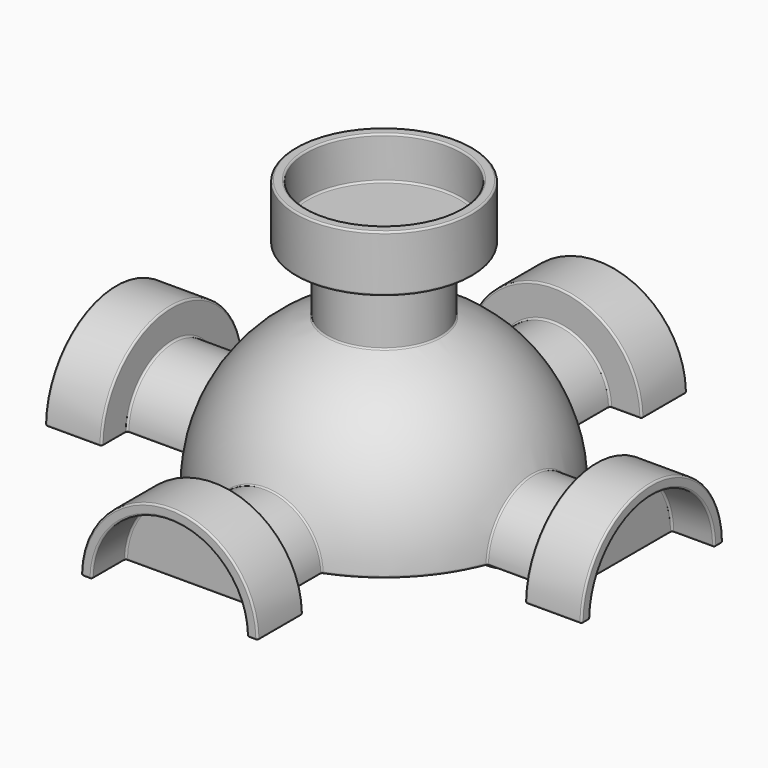
from build123d import *

# Parameters (mm, degrees)
F1_ANGLE  = 180
F2_R      = 11
F3_DEPTH  = 3.5
F4_R      = 3
F5_DEPTH  = 3.5
F7_R      = 8
F8_DEPTH  = 10
F9_R      = 12.5
F10_DEPTH = 8
F11_R     = 11
F12_DEPTH = 6
F15_DEPTH = 10
F17_DEPTH = 8
F19_DEPTH = 6
F22_DEPTH = 10
F24_DEPTH = 8
F26_DEPTH = 6
F29_DEPTH = 10
F31_DEPTH = 8
F33_DEPTH = 6
F36_DEPTH = 10
F38_DEPTH = 8
F40_DEPTH = 6
F41_R     = 0.25


with BuildPart() as f1:
    # F0 (on Top) → F1 (revolve)
    with BuildSketch(Plane.XY):
        with BuildLine():
            ThreePointArc((0, -22.5), (15.9099025767, -15.9099025767), (22.5, 0))
            ThreePointArc((22.5, 0), (15.9099025767, 15.9099025767), (0, 22.5))
            Line((0, 22.5), (0, -22.5))
        make_face()
    revolve(axis=Axis((0, 0, 0), (0, -1, 0)), revolution_arc=F1_ANGLE)

    # F2 (on face) → F3 (cut)
    with BuildSketch(Plane(origin=(0, 0, 0), x_dir=(1, 0, 0), z_dir=(0, 0, -1))):
        Circle(F2_R)
    extrude(amount=-F3_DEPTH, mode=Mode.SUBTRACT)

    # F4 (on face) → F5 (join)
    with BuildSketch(Plane(origin=(0, 0, 0), x_dir=(1, 0, 0), z_dir=(0, 0, -1))):
        with Locations((0, 17)):
            Circle(F4_R)
        with Locations((17, 0)):
            Circle(F4_R)
        with Locations((-17, 0)):
            Circle(F4_R)
        with Locations((0, -17)):
            Circle(F4_R)
    extrude(amount=F5_DEPTH)

    # F7 (on offset) → F8 (join)
    with BuildSketch(Plane.XY.offset(20)):
        Circle(F7_R)
    extrude(amount=F8_DEPTH)

    # F9 (on face) → F10 (join)
    with BuildSketch(Plane.XY.offset(30)):
        Circle(F9_R)
    extrude(amount=F10_DEPTH)

    # F11 (on face) → F12 (cut)
    with BuildSketch(Plane.XY.offset(38)):
        Circle(F11_R)
    extrude(amount=-F12_DEPTH, mode=Mode.SUBTRACT)

    # F14 (on offset) → F15 (join)
    with BuildSketch(Plane.YZ.offset(20)):
        with BuildLine():
            Line((-8, 0), (8, 0))
            ThreePointArc((8, 0), (0, 8), (-8, 0))
        make_face()
    extrude(amount=F15_DEPTH)

    # F16 (on face) → F17 (join)
    with BuildSketch(Plane.YZ.offset(30)):
        with BuildLine():
            Line((-12.5, 0), (12.5, 0))
            ThreePointArc((12.5, 0), (0, 12.5), (-12.5, 0))
        make_face()
    extrude(amount=F17_DEPTH)

    # F18 (on face) → F19 (cut)
    with BuildSketch(Plane.YZ.offset(38)):
        with BuildLine():
            Line((-11, 0), (11, 0))
            ThreePointArc((11, 0), (0, 11), (-11, 0))
        make_face()
    extrude(amount=-F19_DEPTH, mode=Mode.SUBTRACT)

    # F21 (on offset) → F22 (join)
    with BuildSketch(Plane.XZ.offset(-20)):
        with BuildLine():
            Line((-8, 0), (8, 0))
            ThreePointArc((8, 0), (0, 8), (-8, 0))
        make_face()
    extrude(amount=-F22_DEPTH)

    # F23 (on face) → F24 (join)
    with BuildSketch(Plane(origin=(0, 30, 0), x_dir=(-1, 0, 0), z_dir=(0, 1, 0))):
        with BuildLine():
            Line((-12.5, 0), (12.5, 0))
            ThreePointArc((12.5, 0), (0, 12.5), (-12.5, 0))
        make_face()
    extrude(amount=F24_DEPTH)

    # F25 (on face) → F26 (cut)
    with BuildSketch(Plane(origin=(0, 38, 0), x_dir=(-1, 0, 0), z_dir=(0, 1, 0))):
        with BuildLine():
            Line((-11, 0), (11, 0))
            ThreePointArc((11, 0), (0, 11), (-11, 0))
        make_face()
    extrude(amount=-F26_DEPTH, mode=Mode.SUBTRACT)

    # F28 (on offset) → F29 (join)
    with BuildSketch(Plane.YZ.offset(-20)):
        with BuildLine():
            Line((-8, 0), (8, 0))
            ThreePointArc((8, 0), (0, 8), (-8, 0))
        make_face()
    extrude(amount=-F29_DEPTH)

    # F30 (on face) → F31 (join)
    with BuildSketch(Plane(origin=(-30, 0, 0), x_dir=(0, -1, 0), z_dir=(-1, 0, 0))):
        with BuildLine():
            Line((-12.5, 0), (12.5, 0))
            ThreePointArc((12.5, 0), (0, 12.5), (-12.5, 0))
        make_face()
    extrude(amount=F31_DEPTH)

    # F32 (on face) → F33 (cut)
    with BuildSketch(Plane(origin=(-38, 0, 0), x_dir=(0, -1, 0), z_dir=(-1, 0, 0))):
        with BuildLine():
            Line((-11, 0), (11, 0))
            ThreePointArc((11, 0), (0, 11), (-11, 0))
        make_face()
    extrude(amount=-F33_DEPTH, mode=Mode.SUBTRACT)

    # F35 (on offset) → F36 (join)
    with BuildSketch(Plane.XZ.offset(20)):
        with BuildLine():
            Line((-8, 0), (8, 0))
            ThreePointArc((8, 0), (0, 8), (-8, 0))
        make_face()
    extrude(amount=F36_DEPTH)

    # F37 (on face) → F38 (join)
    with BuildSketch(Plane.XZ.offset(30)):
        with BuildLine():
            Line((-12.5, 0), (12.5, 0))
            ThreePointArc((12.5, 0), (0, 12.5), (-12.5, 0))
        make_face()
    extrude(amount=F38_DEPTH)

    # F39 (on face) → F40 (cut)
    with BuildSketch(Plane.XZ.offset(38)):
        with BuildLine():
            Line((-11, 0), (11, 0))
            ThreePointArc((11, 0), (0, 11), (-11, 0))
        make_face()
    extrude(amount=-F40_DEPTH, mode=Mode.SUBTRACT)

    # F41
    f41_edges = [f1.edges().sort_by_distance(p)[0] for p in [
        (-34, -12.5, 0),
        (-34, 12.5, 0),
        (-30, 0, 12.5),
        (-38, 0, 12.5),
        (-30, -10.25, 0),
        (-30, 0, 8),
        (-30, 10.25, 0),
        (0, 38, 12.5),
        (-11.75, 38, 0),
        (0, 38, 11),
        (11.75, 38, 0),
        (-21.029741, 0, 8),
        (-25.51487, -8, 0),
        (-25.51487, 8, 0),
        (15.909903, -15.909903, 0),
        (15.909903, 15.909903, 0),
        (-15.909903, 15.909903, 0),
        (-15.909903, -15.909903, 0),
        (12.5, 0, 34),
        (-12.5, 0, 30),
        (-12.5, 0, 38),
        (-11, 0, 38),
        (11, 0, 35),
        (-11, 0, 32),
        (21.029741, 0, 8),
        (25.51487, -8, 0),
        (30, 0, 8),
        (25.51487, 8, 0),
        (34, 12.5, 0),
        (34, -12.5, 0),
        (30, 0, 12.5),
        (38, 0, 12.5),
        (30, 10.25, 0),
        (30, -10.25, 0),
        (32, 0, 0),
        (32, 0, 11),
        (38, 11.75, 0),
        (38, 0, 11),
        (38, -11.75, 0),
        (0, 21.029741, 8),
        (-8, 25.51487, 0),
        (0, 30, 8),
        (8, 25.51487, 0),
        (-12.5, 34, 0),
        (12.5, 34, 0),
        (0, 30, 12.5),
        (-10.25, 30, 0),
        (10.25, 30, 0),
        (-38, -11.75, 0),
        (-38, 0, 11),
        (-38, 11.75, 0),
        (0, -21.029741, 8),
        (-8, 0, 21.029741),
        (-8, -25.51487, 0),
        (0, -30, 8),
        (8, -25.51487, 0),
        (12.5, -34, 0),
        (-12.5, -34, 0),
        (0, -30, 12.5),
        (0, -38, 12.5),
        (11.75, -38, 0),
        (0, -38, 11),
        (-11.75, -38, 0),
        (-10.25, -30, 0),
        (-35, -11, 0),
        (-32, 0, 0),
        (-35, 11, 0),
        (-11, 35, 0),
        (0, 32, 0),
        (11, 35, 0),
        (35, 11, 0),
        (35, -11, 0),
        (10.25, -30, 0),
        (11, -35, 0),
        (0, -32, 0),
        (-11, -35, 0),
        (-3, -17, 0),
        (-20, 0, 0),
        (-11, 0, 0),
        (14, 0, 0),
        (-3, 17, 0),
        (0, 32, 11),
        (-11, 0, 3.5),
        (3, -17, -1.75),
        (-3, -17, -3.5),
        (20, 0, -1.75),
        (14, 0, -3.5),
        (-14, 0, -1.75),
        (-20, 0, -3.5),
        (3, 17, -1.75),
        (-3, 17, -3.5),
        (8, 0, 25.51487),
        (-8, 0, 30),
        (-32, 0, 11),
        (0, -32, 11),
        (11, 0, 1.75),
    ]]
    fillet(f41_edges, radius=F41_R)


solid = f1.part
